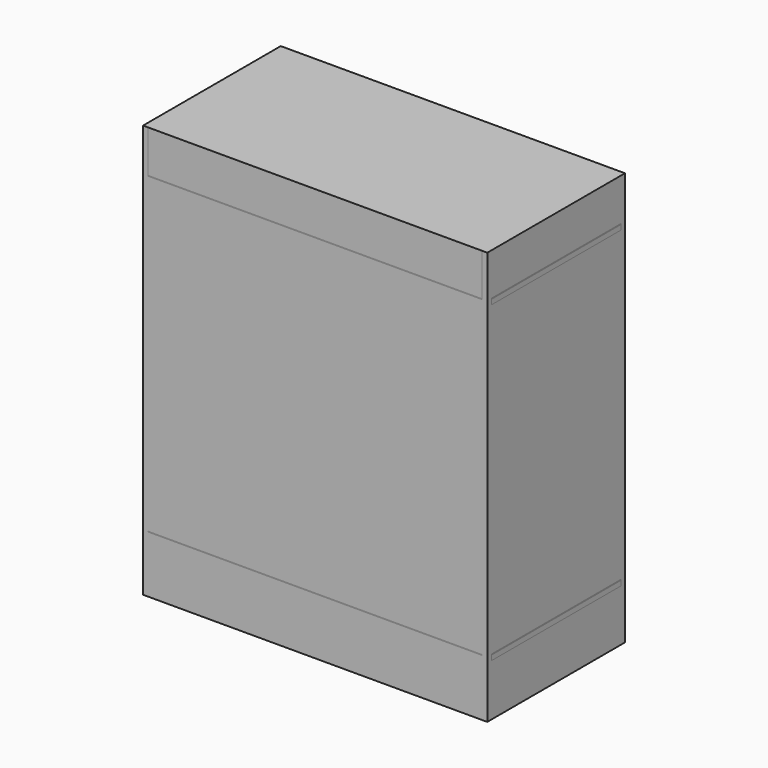
from build123d import *

# Parameters (mm, degrees)
SKETCH_W      = 30
SKETCH_H      = 30
SKETCH_W_2    = 26
SKETCH_H_2    = 26
PAD_DEPTH     = 2400
FILLET_R      = 1
SKETCH001_W   = 30
SKETCH001_H   = 30
SKETCH001_W_2 = 26
SKETCH001_H_2 = 26
PAD001_DEPTH  = 2400
FILLET001_R   = 1
SKETCH002_W   = 30
SKETCH002_H   = 30
SKETCH002_W_2 = 26
SKETCH002_H_2 = 26
PAD002_DEPTH  = 2400
FILLET002_R   = 1
SKETCH003_W   = 30
SKETCH003_H   = 30
SKETCH003_W_2 = 26
SKETCH003_H_2 = 26
PAD003_DEPTH  = 2400
FILLET003_R   = 1
SKETCH004_W   = 30
SKETCH004_H   = 30
SKETCH004_W_2 = 26
SKETCH004_H_2 = 26
PAD004_DEPTH  = 970
FILLET004_R   = 1
SKETCH005_W   = 30
SKETCH005_H   = 30
SKETCH005_W_2 = 26
SKETCH005_H_2 = 26
PAD005_DEPTH  = 970
FILLET005_R   = 1
SKETCH009_W   = 30
SKETCH009_H   = 30
SKETCH009_W_2 = 26
SKETCH009_H_2 = 26
PAD009_DEPTH  = 970
FILLET009_R   = 1
SKETCH011_W   = 30
SKETCH011_H   = 30
SKETCH011_W_2 = 26
SKETCH011_H_2 = 26
PAD011_DEPTH  = 970
FILLET011_R   = 1
SKETCH012_W   = 2000
SKETCH012_H   = 1000
PAD012_DEPTH  = 2400
SKETCH013_W   = 30
SKETCH013_H   = 30
SKETCH013_W_2 = 26
SKETCH013_H_2 = 26
PAD013_DEPTH  = 470
FILLET012_R   = 1
SKETCH014_W   = 30
SKETCH014_H   = 30
SKETCH014_W_2 = 26
SKETCH014_H_2 = 26
PAD014_DEPTH  = 470
FILLET013_R   = 1
SKETCH015_W   = 30
SKETCH015_H   = 30
SKETCH015_W_2 = 26
SKETCH015_H_2 = 26
PAD015_DEPTH  = 470
FILLET014_R   = 1
SKETCH016_W   = 30
SKETCH016_H   = 30
SKETCH016_W_2 = 26
SKETCH016_H_2 = 26
PAD016_DEPTH  = 470
FILLET015_R   = 1
PAD017_DEPTH  = 5
PAD018_DEPTH  = 5
SKETCH019_W   = 1940
SKETCH019_H   = 245
PAD019_DEPTH  = 2.5


with BuildPart() as obj1:
    # Sketch → Pad (new body)
    with BuildSketch(Plane.XY):
        Rectangle(SKETCH_W, SKETCH_H)
        Rectangle(SKETCH_W_2, SKETCH_H_2, mode=Mode.SUBTRACT)
    extrude(amount=PAD_DEPTH)

    # Fillet
    fillet_edges = [obj1.edges().sort_by_distance(p)[0] for p in [
        (15, -15, 1200),
        (15, 15, 1200),
        (-15, 15, 1200),
        (-15, -15, 1200),
    ]]
    fillet(fillet_edges, radius=FILLET_R)


with BuildPart() as obj1_1:
    # Body placement: moved
    add(obj1.part.moved(Location((-985, 485, 0))))


with BuildPart() as obj2:
    # Sketch001 → Pad001 (new body)
    with BuildSketch(Plane.XY):
        Rectangle(SKETCH001_W, SKETCH001_H)
        Rectangle(SKETCH001_W_2, SKETCH001_H_2, mode=Mode.SUBTRACT)
    extrude(amount=PAD001_DEPTH)

    # Fillet001
    fillet001_edges = [obj2.edges().sort_by_distance(p)[0] for p in [
        (15, -15, 1200),
        (15, 15, 1200),
        (-15, 15, 1200),
        (-15, -15, 1200),
    ]]
    fillet(fillet001_edges, radius=FILLET001_R)


with BuildPart() as obj2_1:
    # Body001 placement: moved
    add(obj2.part.moved(Location((985, 485, 0))))


with BuildPart() as obj3:
    # Sketch002 → Pad002 (new body)
    with BuildSketch(Plane.XY):
        Rectangle(SKETCH002_W, SKETCH002_H)
        Rectangle(SKETCH002_W_2, SKETCH002_H_2, mode=Mode.SUBTRACT)
    extrude(amount=PAD002_DEPTH)

    # Fillet002
    fillet002_edges = [obj3.edges().sort_by_distance(p)[0] for p in [
        (15, -15, 1200),
        (15, 15, 1200),
        (-15, 15, 1200),
        (-15, -15, 1200),
    ]]
    fillet(fillet002_edges, radius=FILLET002_R)


with BuildPart() as obj3_1:
    # Body002 placement: moved
    add(obj3.part.moved(Location((985, -485, 0))))


with BuildPart() as obj4:
    # Sketch003 → Pad003 (new body)
    with BuildSketch(Plane.XY):
        Rectangle(SKETCH003_W, SKETCH003_H)
        Rectangle(SKETCH003_W_2, SKETCH003_H_2, mode=Mode.SUBTRACT)
    extrude(amount=PAD003_DEPTH)

    # Fillet003
    fillet003_edges = [obj4.edges().sort_by_distance(p)[0] for p in [
        (15, -15, 1200),
        (15, 15, 1200),
        (-15, 15, 1200),
        (-15, -15, 1200),
    ]]
    fillet(fillet003_edges, radius=FILLET003_R)


with BuildPart() as obj4_1:
    # Body003 placement: moved
    add(obj4.part.moved(Location((-985, -485, 0))))


with BuildPart() as obj5:
    # Sketch004 → Pad004 (new body, symmetric)
    with BuildSketch(Plane.YZ):
        Rectangle(SKETCH004_W, SKETCH004_H)
        Rectangle(SKETCH004_W_2, SKETCH004_H_2, mode=Mode.SUBTRACT)
    extrude(amount=PAD004_DEPTH, both=True)

    # Fillet004
    fillet004_edges = [obj5.edges().sort_by_distance(p)[0] for p in [
        (0, 15, 15),
        (0, 15, -15),
        (0, -15, -15),
        (0, -15, 15),
    ]]
    fillet(fillet004_edges, radius=FILLET004_R)


with BuildPart() as obj5_1:
    # Body005 placement: moved
    add(obj5.part.moved(Location((0, -485, 315))))


with BuildPart() as obj6:
    # Sketch005 → Pad005 (new body, symmetric)
    with BuildSketch(Plane.YZ):
        Rectangle(SKETCH005_W, SKETCH005_H)
        Rectangle(SKETCH005_W_2, SKETCH005_H_2, mode=Mode.SUBTRACT)
    extrude(amount=PAD005_DEPTH, both=True)

    # Fillet005
    fillet005_edges = [obj6.edges().sort_by_distance(p)[0] for p in [
        (0, 15, 15),
        (0, 15, -15),
        (0, -15, -15),
        (0, -15, 15),
    ]]
    fillet(fillet005_edges, radius=FILLET005_R)


with BuildPart() as obj6_1:
    # Body006 placement: moved
    add(obj6.part.moved(Location((0, 485, 315))))


with BuildPart() as obj7:
    # Sketch009 → Pad009 (new body, symmetric)
    with BuildSketch(Plane.YZ):
        Rectangle(SKETCH009_W, SKETCH009_H)
        Rectangle(SKETCH009_W_2, SKETCH009_H_2, mode=Mode.SUBTRACT)
    extrude(amount=PAD009_DEPTH, both=True)

    # Fillet009
    fillet009_edges = [obj7.edges().sort_by_distance(p)[0] for p in [
        (0, 15, 15),
        (0, 15, -15),
        (0, -15, -15),
        (0, -15, 15),
    ]]
    fillet(fillet009_edges, radius=FILLET009_R)


with BuildPart() as obj7_1:
    # Body010 placement: moved
    add(obj7.part.moved(Location((0, 485, 2135))))


with BuildPart() as obj8:
    # Sketch011 → Pad011 (new body, symmetric)
    with BuildSketch(Plane.YZ):
        Rectangle(SKETCH011_W, SKETCH011_H)
        Rectangle(SKETCH011_W_2, SKETCH011_H_2, mode=Mode.SUBTRACT)
    extrude(amount=PAD011_DEPTH, both=True)

    # Fillet011
    fillet011_edges = [obj8.edges().sort_by_distance(p)[0] for p in [
        (0, 15, 15),
        (0, 15, -15),
        (0, -15, -15),
        (0, -15, 15),
    ]]
    fillet(fillet011_edges, radius=FILLET011_R)


with BuildPart() as obj8_1:
    # Body012 placement: moved
    add(obj8.part.moved(Location((0, -485, 2135))))


with BuildPart() as boundary:
    # Sketch012 → Pad012 (new body)
    with BuildSketch(Plane.XY):
        Rectangle(SKETCH012_W, SKETCH012_H)
    extrude(amount=PAD012_DEPTH)


with BuildPart() as obj9:
    # Sketch013 → Pad013 (new body, symmetric)
    with BuildSketch(Plane.XZ):
        Rectangle(SKETCH013_W, SKETCH013_H)
        Rectangle(SKETCH013_W_2, SKETCH013_H_2, mode=Mode.SUBTRACT)
    extrude(amount=PAD013_DEPTH, both=True)

    # Fillet012
    fillet012_edges = [obj9.edges().sort_by_distance(p)[0] for p in [
        (15, 0, 15),
        (-15, 0, 15),
        (-15, 0, -15),
        (15, 0, -15),
    ]]
    fillet(fillet012_edges, radius=FILLET012_R)


with BuildPart() as obj9_1:
    # Body014 placement: moved
    add(obj9.part.moved(Location((-985, 0, 315))))


with BuildPart() as obj10:
    # Sketch014 → Pad014 (new body, symmetric)
    with BuildSketch(Plane.XZ):
        Rectangle(SKETCH014_W, SKETCH014_H)
        Rectangle(SKETCH014_W_2, SKETCH014_H_2, mode=Mode.SUBTRACT)
    extrude(amount=PAD014_DEPTH, both=True)

    # Fillet013
    fillet013_edges = [obj10.edges().sort_by_distance(p)[0] for p in [
        (15, 0, 15),
        (-15, 0, 15),
        (-15, 0, -15),
        (15, 0, -15),
    ]]
    fillet(fillet013_edges, radius=FILLET013_R)


with BuildPart() as obj10_1:
    # Body015 placement: moved
    add(obj10.part.moved(Location((985, 0, 315))))


with BuildPart() as obj11:
    # Sketch015 → Pad015 (new body, symmetric)
    with BuildSketch(Plane.XZ):
        Rectangle(SKETCH015_W, SKETCH015_H)
        Rectangle(SKETCH015_W_2, SKETCH015_H_2, mode=Mode.SUBTRACT)
    extrude(amount=PAD015_DEPTH, both=True)

    # Fillet014
    fillet014_edges = [obj11.edges().sort_by_distance(p)[0] for p in [
        (15, 0, 15),
        (-15, 0, 15),
        (-15, 0, -15),
        (15, 0, -15),
    ]]
    fillet(fillet014_edges, radius=FILLET014_R)


with BuildPart() as obj11_1:
    # Body016 placement: moved
    add(obj11.part.moved(Location((-985, 0, 2135))))


with BuildPart() as obj12:
    # Sketch016 → Pad016 (new body, symmetric)
    with BuildSketch(Plane.XZ):
        Rectangle(SKETCH016_W, SKETCH016_H)
        Rectangle(SKETCH016_W_2, SKETCH016_H_2, mode=Mode.SUBTRACT)
    extrude(amount=PAD016_DEPTH, both=True)

    # Fillet015
    fillet015_edges = [obj12.edges().sort_by_distance(p)[0] for p in [
        (15, 0, 15),
        (-15, 0, 15),
        (-15, 0, -15),
        (15, 0, -15),
    ]]
    fillet(fillet015_edges, radius=FILLET015_R)


with BuildPart() as obj12_1:
    # Body017 placement: moved
    add(obj12.part.moved(Location((985, 0, 2135))))


with BuildPart() as plate001:
    # Sketch017 → Pad017 (new body)
    with BuildSketch(Plane.XY):
        Polygon((-970, 500), (-970, 470), (-1000, 470), (-1000, -470), (-970, -470), (-970, -500), (970, -500), (970, -470), (1000, -470), (1000, 470), (970, 470), (970, 500), align=None)
    extrude(amount=PAD017_DEPTH)


with BuildPart() as plate001_1:
    # Body018 placement: moved
    add(plate001.part.moved(Location((0, 0, 330))))


with BuildPart() as plate002:
    # Sketch018 → Pad018 (new body)
    with BuildSketch(Plane.XY):
        Polygon((-970, 500), (-970, 470), (-1000, 470), (-1000, -470), (-970, -470), (-970, -500), (970, -500), (970, -470), (1000, -470), (1000, 470), (970, 470), (970, 500), align=None)
    extrude(amount=PAD018_DEPTH)


with BuildPart() as plate002_1:
    # Body019 placement: moved
    add(plate002.part.moved(Location((0, 0, 2150))))


with BuildPart() as plate003:
    # Sketch019 → Pad019 (new body, symmetric)
    with BuildSketch(Plane.XZ):
        Rectangle(SKETCH019_W, SKETCH019_H)
    extrude(amount=PAD019_DEPTH, both=True)


with BuildPart() as plate003_1:
    # Body020 placement: moved
    add(plate003.part.moved(Location((0, -497.5, 2277.5))))


solid = Compound([obj1_1.part, obj2_1.part, obj3_1.part, obj4_1.part, obj5_1.part, obj6_1.part, obj7_1.part, obj8_1.part, boundary.part, obj9_1.part, obj10_1.part, obj11_1.part, obj12_1.part, plate001_1.part, plate002_1.part, plate003_1.part])
